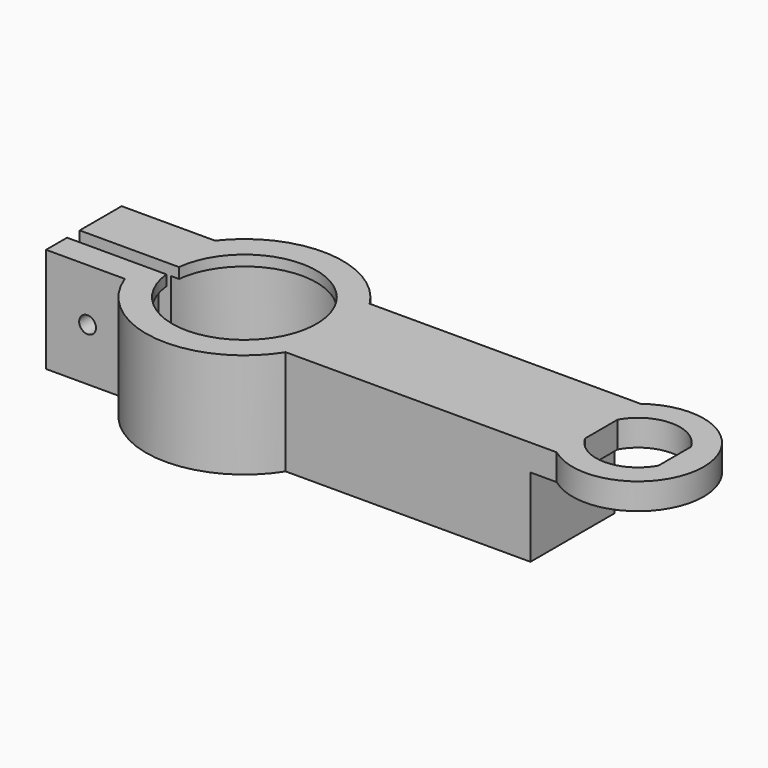
from build123d import *

# Parameters (mm, degrees)
PAD_DEPTH       = 10
SKETCH001_R     = 1.6
POCKET_DEPTH    = 25.251
POCKET002_DEPTH = 5
SKETCH005_W     = 15.25
SKETCH005_H     = 16
POCKET003_DEPTH = 15
POCKET004_DEPTH = 2.5


with BuildPart() as part:
    # Sketch → Pad (new body, symmetric)
    with BuildSketch(Plane.XY):
        with BuildLine():
            ThreePointArc((-17.587282, -6.5), (-1.951346, -18.648183), (15.860722, -10))
            Line((67.5, -10), (15.860722, -10))
            ThreePointArc((67.5, -10), (87.5, 0), (67.5, 10))
            Line((67.5, 10), (15.860722, 10))
            ThreePointArc((15.860722, 10), (0.915927, 18.727615), (-14.809203, 11.5))
            Line((-32.587282, 11.5), (-14.809203, 11.5))
            Line((-32.587282, 1.5), (-32.587282, 11.5))
            Line((-13.667937, 1.5), (-32.587282, 1.5))
            ThreePointArc((-13.667937, -1.5), (13.75, 0), (-13.667937, 1.5))
            Line((-32.587282, -1.5), (-13.667937, -1.5))
            Line((-32.587282, -6.5), (-32.587282, -1.5))
            Line((-17.587282, -6.5), (-32.587282, -6.5))
        make_face()
        with BuildLine():
            ThreePointArc((68, -3.872983), (75, -8), (82, -3.872983))
            Line((82, 3.872983), (82, -3.872983))
            ThreePointArc((82, 3.872983), (75, 8), (68, 3.872983))
            Line((68, 3.872983), (68, -3.872983))
        make_face(mode=Mode.SUBTRACT)
    extrude(amount=PAD_DEPTH, both=True)

    # Sketch001 (on Face1 of Pad) → Pocket (cut, through all)
    with BuildSketch(Plane.XZ.offset(6.5)):
        with Locations((-24.684659, 0)):
            Circle(SKETCH001_R)
    extrude(amount=-POCKET_DEPTH, mode=Mode.SUBTRACT)

    # Sketch003 → Pocket002 (cut)
    with BuildSketch(Plane.XZ.offset(12.5)):
        Polygon((100.061388, 3.464102), (97.061388, 1.732051), (97.061388, -1.732051), (100.061388, -3.464102), (103.061388, -1.732051), (103.061388, 1.732051), align=None)
    extrude(amount=-POCKET002_DEPTH, mode=Mode.SUBTRACT)

    # Sketch005 → Groove (revolve, cut)
    with BuildSketch(Plane.YZ):
        with Locations((7.625, 0)):
            Rectangle(SKETCH005_W, SKETCH005_H)
    revolve(axis=Axis((0, 0, 0), (0, 0, 1)), mode=Mode.SUBTRACT)

    # Sketch006 (on Face3 of Groove) → Pocket003 (cut)
    with BuildSketch(Plane(origin=(0, 0, -10), x_dir=(1, 0, 0), z_dir=(0, 0, -1))):
        with BuildLine():
            ThreePointArc((67.5, -10), (87.5, 0), (67.5, 10))
            Line((67.5, 10), (62.5, 10))
            Line((62.5, -10), (62.5, 10))
            Line((67.5, -10), (62.5, -10))
        make_face()
    extrude(amount=-POCKET003_DEPTH, mode=Mode.SUBTRACT)

    # Sketch007 (on Face12 of Pocket003) → Pocket004 (cut)
    with BuildSketch(Plane(origin=(0, 11.5, 0), x_dir=(-1, 0, 0), z_dir=(0, 1, 0))):
        Polygon((24.684659, 3.319764), (21.809659, 1.659882), (21.809659, -1.659882), (24.684659, -3.319764), (27.559659, -1.659882), (27.559659, 1.659882), align=None)
    extrude(amount=-POCKET004_DEPTH, mode=Mode.SUBTRACT)


solid = part.part
